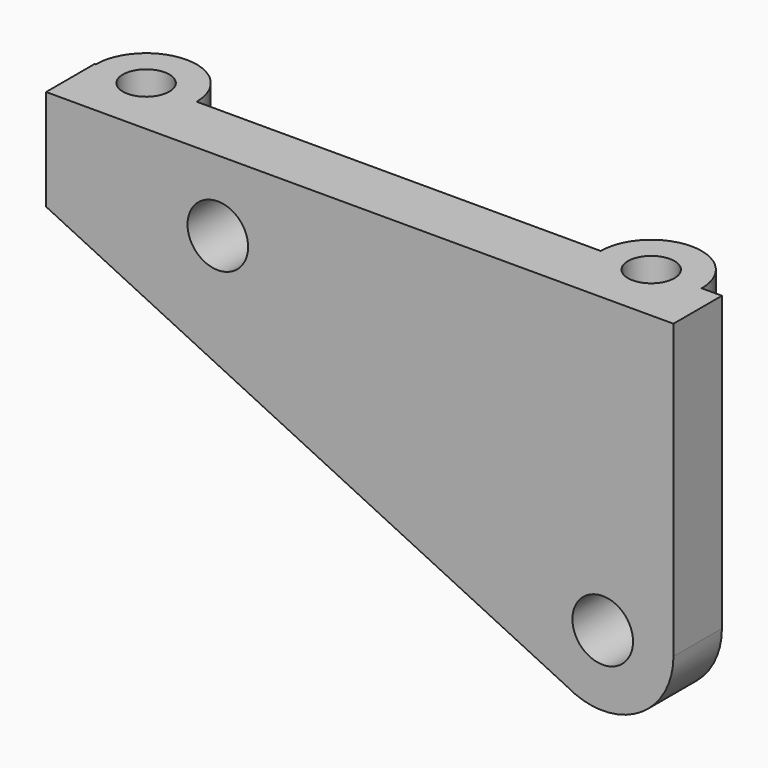
from build123d import *

# Parameters (mm, degrees)
F0_R     = 1.5
F1_DEPTH = 3
F2_R     = 2.5
F3_DEPTH = 5
F4_R     = 1.15
F5_DEPTH = 10


with BuildPart() as f1:
    # F0 (on Front) → F1 (new body)
    with BuildSketch(Plane.XZ):
        with BuildLine():
            Line((-15.850437, 19.086891), (9.944777, 6.560055))
            ThreePointArc((9.944777, 6.560055), (13.448446, 6.553682), (15.202122, 9.586891))
            Line((15.202122, 9.586891), (15.202122, 24.086891))
            Line((15.202122, 24.086891), (-10.850437, 24.086891))
            Line((-10.850437, 24.086891), (-15.850437, 24.086891))
            Line((-15.850437, 24.086891), (-15.850437, 19.086891))
        make_face()
        with BuildLine():
            ThreePointArc((13.00116, 8.836891), (10.952122, 8.287853), (10.403084, 10.336891))
            ThreePointArc((10.403084, 10.336891), (12.090351, 11.035779), (13.202122, 9.586891))
            ThreePointArc((13.202122, 9.586891), (13.151011, 9.198662), (13.00116, 8.836891))
        make_face(mode=Mode.SUBTRACT)
        with Locations((-7.350437, 20.586891)):
            Circle(F0_R, mode=Mode.SUBTRACT)
    extrude(amount=F1_DEPTH)

    # F2 (on face) → F3 (join)
    with BuildSketch(Plane.XY.offset(24.086891)):
        with Locations((11.702122, 0)):
            Circle(F2_R)
        with Locations((-13.297878, 0)):
            Circle(F2_R)
    extrude(amount=-F3_DEPTH)

    # F4 (on face) → F5 (cut)
    with BuildSketch(Plane.XY.offset(24.086891)):
        with Locations((11.702122, 0)):
            Circle(F4_R)
        with Locations((-13.297878, 0)):
            Circle(F4_R)
    extrude(amount=-F5_DEPTH, mode=Mode.SUBTRACT)


solid = f1.part
